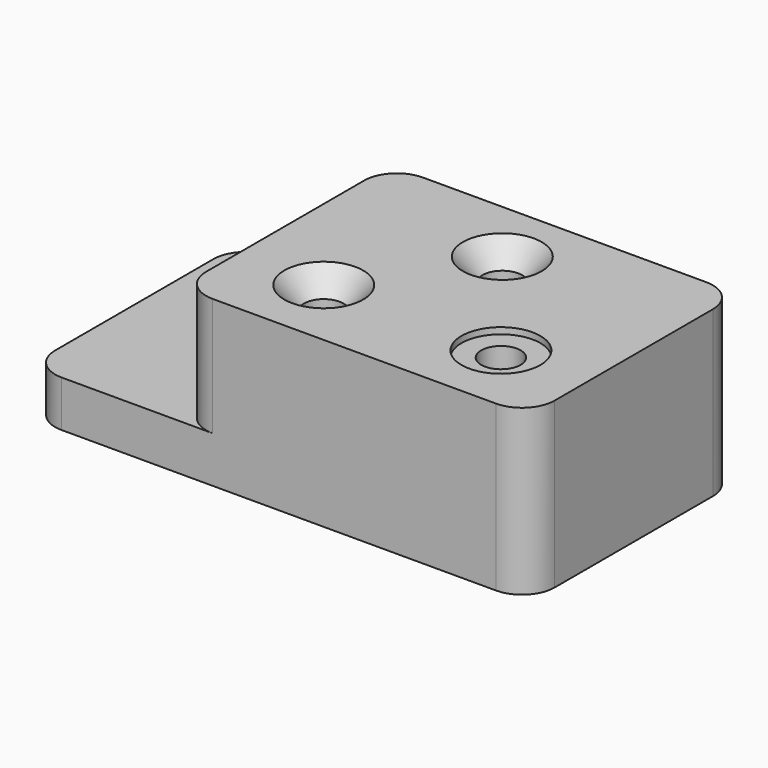
from build123d import *

# Parameters (mm, degrees)
F0_W            = 241.3
F0_H            = 127
F1_DEPTH        = 79.502
F2_W            = 72.898
F2_H            = 127
F3_DEPTH        = 57.15
F4_R            = 15.748
F6_D            = 19.05
F6_CBORE_D      = 38.1
F6_CBORE_DEPTH  = 3.048
F8_D            = 19.05
F8_CSINK_D      = 38.1
F8_CSINK_ANGLE  = 82
F10_D           = 19.05
F10_CBORE_D     = 38.1
F10_CBORE_DEPTH = 3.048


with BuildPart() as f1:
    # F0 (on Top) → F1 (new body)
    with BuildSketch(Plane.XY):
        with Locations((120.65, 63.5)):
            Rectangle(F0_W, F0_H)
    extrude(amount=F1_DEPTH)

    # F2 (on face) → F3 (cut)
    with BuildSketch(Plane.XY.offset(79.502)):
        with Locations((36.449, 63.5)):
            Rectangle(F2_W, F2_H)
    extrude(amount=-F3_DEPTH, mode=Mode.SUBTRACT)

    # F4
    f4_edges = [f1.edges().sort_by_distance(p)[0] for p in [
        (72.898, 0, 50.927),
        (0, 0, 11.176),
        (0, 127, 11.176),
        (72.898, 127, 50.927),
        (241.3, 0, 39.751),
        (241.3, 127, 39.751),
    ]]
    fillet(f4_edges, radius=F4_R)

    # F6 (through all)
    with Locations(Plane.XY.offset(79.502)):
        with Locations((199.898, 35.052)):
            CounterBoreHole(F6_D / 2, F6_CBORE_D / 2, F6_CBORE_DEPTH)

    # F8 (through all)
    with Locations(Plane.XY.offset(79.502)):
        with Locations((152.4, 95.25), (114.3, 35.052)):
            CounterSinkHole(F8_D / 2, F8_CSINK_D / 2, counter_sink_angle=F8_CSINK_ANGLE)

    # F10 (through all)
    with Locations(Plane.XY.offset(22.352)):
        with Locations((35.052, 95.25)):
            CounterBoreHole(F10_D / 2, F10_CBORE_D / 2, F10_CBORE_DEPTH)


solid = f1.part
